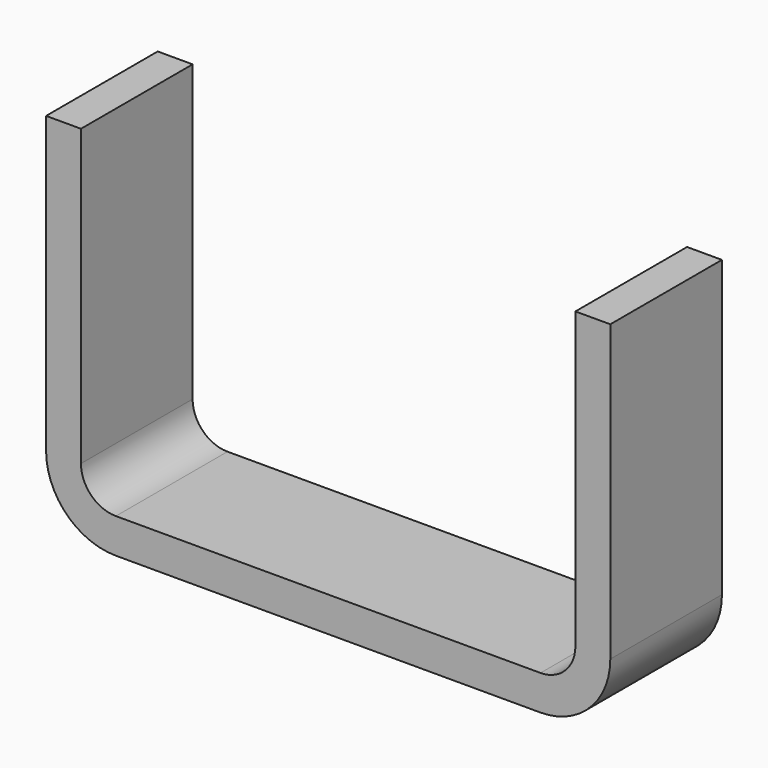
from build123d import *

# Parameters (mm, degrees)
F1_DEPTH = 6.35
F2_R     = 3.175
F3_R     = 6.35


with BuildPart() as f1:
    # F0 (on Front) → F1 (new body, symmetric)
    with BuildSketch(Plane.XZ):
        Polygon((22.5, 0), (0, 0), (-22.5, 0), (-22.5, 30), (-25.675, 30), (-25.675, -3.175), (0, -3.175), (25.675, -3.175), (25.675, 30), (22.5, 30), align=None)
    extrude(amount=F1_DEPTH, both=True)

    # F2
    f2_edges = [f1.edges().sort_by_distance(p)[0] for p in [
        (22.5, 0, 0),
        (-22.5, 0, 0),
    ]]
    fillet(f2_edges, radius=F2_R)

    # F3
    f3_edges = [f1.edges().sort_by_distance(p)[0] for p in [
        (-25.675, 0, -3.175),
        (25.675, 0, -3.175),
    ]]
    fillet(f3_edges, radius=F3_R)


solid = f1.part
